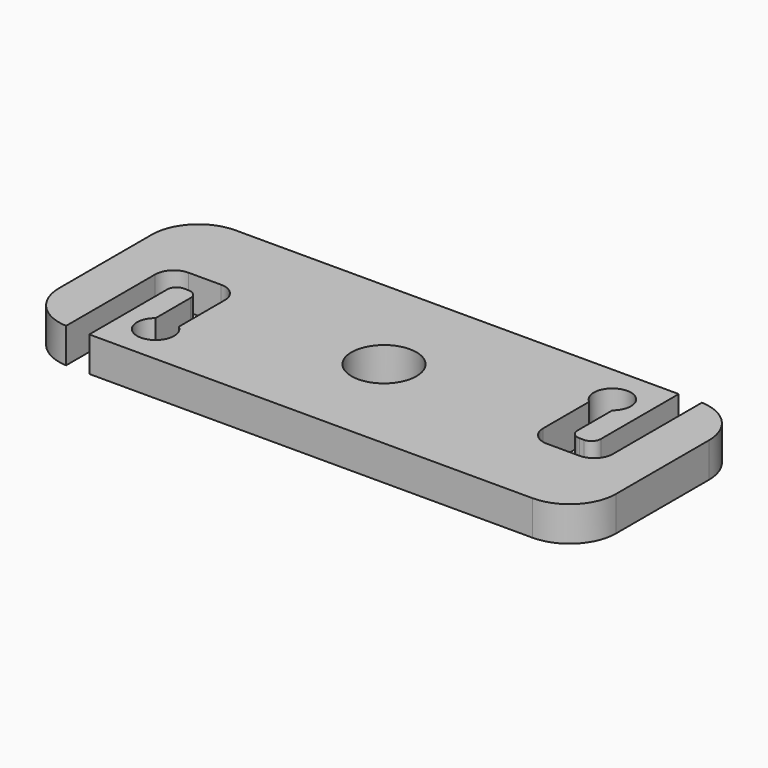
from build123d import *

# Parameters (mm, degrees)
F1_DEPTH = 19.05
F2_R     = 17.78
F3_DEPTH = 19.051
F5_DEPTH = 19.051


with BuildPart() as f1:
    # F0 (on Top) → F1 (new body)
    with BuildSketch(Plane.XY):
        with BuildLine():
            ThreePointArc((152.4, 31.75), (144.9605122421, 49.7105122421), (127, 57.15))
            Line((127, 57.15), (-127, 57.15))
            ThreePointArc((-127, 57.15), (-144.9605122421, 49.7105122421), (-152.4, 31.75))
            Line((-152.4, 31.75), (-152.4, -31.75))
            ThreePointArc((-152.4, -31.75), (-144.9605122421, -49.7105122421), (-127, -57.15))
            Line((-127, -57.15), (127, -57.15))
            ThreePointArc((127, -57.15), (144.9605122421, -49.7105122421), (152.4, -31.75))
            Line((152.4, -31.75), (152.4, 31.75))
        make_face()
    extrude(amount=F1_DEPTH)

    # F2 (on face) → F3 (cut, through all)
    with BuildSketch(Plane.XY.offset(19.05)):
        Circle(F2_R)
    extrude(amount=-F3_DEPTH, mode=Mode.SUBTRACT)

    # F4 (on face) → F5 (cut, through all)
    with BuildSketch(Plane.XY.offset(19.05)):
        with BuildLine():
            Line((128.27, -3.81), (128.27, 57.15))
            Line((128.27, 57.15), (115.57, 57.15))
            Line((115.57, 57.15), (115.57, 3.81))
            ThreePointArc((115.57, 3.81), (114.0821024484, 0.2178975516), (110.49, -1.27))
            Line((110.49, -1.27), (107.95, -1.27))
            ThreePointArc((107.95, -1.27), (104.3578975516, 0.2178975516), (102.87, 3.81))
            Line((102.87, 3.81), (102.87, 27.628852542))
            ThreePointArc((102.87, 27.628852542), (96.52, 45.72), (90.17, 27.628852542))
            Line((90.17, 27.628852542), (90.17, -3.81))
            ThreePointArc((90.17, -3.81), (93.1457951031, -10.9942048969), (100.33, -13.97))
            Line((100.33, -13.97), (118.11, -13.97))
            ThreePointArc((118.11, -13.97), (125.2942048969, -10.9942048969), (128.27, -3.81))
        make_face()
        with BuildLine():
            Line((-128.27, 3.81), (-128.27, -57.1182301314))
            ThreePointArc((-128.27, -57.1182301314), (-127.6351986549, -57.1420562907), (-127, -57.15))
            Line((-127, -57.15), (-115.57, -57.15))
            Line((-115.57, -57.15), (-115.57, -3.81))
            ThreePointArc((-115.57, -3.81), (-114.0821024484, -0.2178975516), (-110.49, 1.27))
            Line((-110.49, 1.27), (-107.95, 1.27))
            ThreePointArc((-107.95, 1.27), (-104.3578975516, -0.2178975516), (-102.87, -3.81))
            Line((-102.87, -3.81), (-102.87, -27.628852542))
            ThreePointArc((-102.87, -27.628852542), (-96.52, -45.72), (-90.17, -27.628852542))
            Line((-90.17, -27.628852542), (-90.17, 3.81))
            ThreePointArc((-90.17, 3.81), (-93.1457951031, 10.9942048969), (-100.33, 13.97))
            Line((-100.33, 13.97), (-118.11, 13.97))
            ThreePointArc((-118.11, 13.97), (-125.2942048969, 10.9942048969), (-128.27, 3.81))
        make_face()
    extrude(amount=-F5_DEPTH, mode=Mode.SUBTRACT)


solid = f1.part
